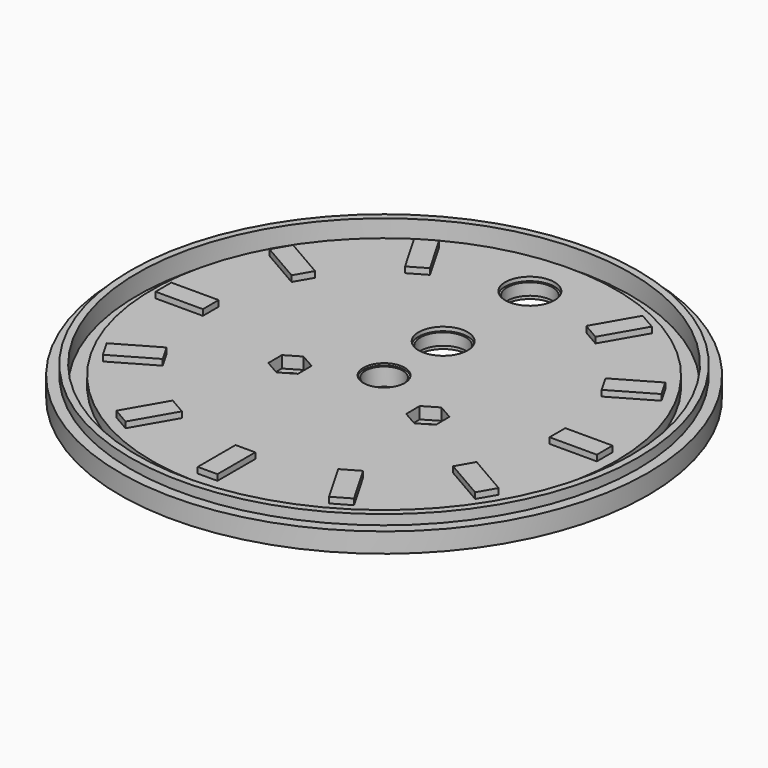
from build123d import *

# Parameters (mm, degrees)
F0_R      = 67
F1_DEPTH  = 2.5
F2_R      = 64.375
F2_R_2    = 62.625
F3_DEPTH  = 5
F4_R      = 62.625
F4_R_2    = 58.875
F5_DEPTH  = 5
F6_R      = 4.75
F6_R_2    = 5.75
F6_R_3    = 2.1
F7_DEPTH  = 5.001
F8_R      = 5.25
F8_R_2    = 4.75
F9_DEPTH  = 0.5
F8_R_3    = 6.25
F8_R_4    = 5.75
F10_DEPTH = 1
F8_R_5    = 2.1
F11_DEPTH = 3
F12_R     = 6.25
F12_R_2   = 5.75
F13_DEPTH = 1
F14_W     = 5
F14_H     = 12
F15_DEPTH = 1.5
F16_COUNT = 6
F16_ANGLE = 150
F17_COUNT = 6
F17_ANGLE = 150


with BuildPart() as f1:
    # F0 (on Top) → F1 (new body, symmetric)
    with BuildSketch(Plane.XY):
        Circle(F0_R)
    extrude(amount=F1_DEPTH, both=True)

    # F2 (on Top) → F3 (join)
    with BuildSketch(Plane.XY):
        Circle(F2_R)
        Circle(F2_R_2, mode=Mode.SUBTRACT)
    extrude(amount=F3_DEPTH)

    # F4 (on Top) → F5 (cut)
    with BuildSketch(Plane.XY):
        Circle(F4_R)
        Circle(F4_R_2, mode=Mode.SUBTRACT)
    extrude(amount=F5_DEPTH, mode=Mode.SUBTRACT)

    # F6 (on face) → F7 (cut, through all)
    with BuildSketch(Plane.XY.offset(2.5)):
        Circle(F6_R)
        with Locations((0, 18.75)):
            Circle(F6_R_2)
        with Locations((0, 46.25)):
            Circle(F6_R_2)
        with Locations((17.5, -8)):
            Circle(F6_R_3)
        with Locations((-17.5, -8)):
            Circle(F6_R_3)
    extrude(amount=-F7_DEPTH, mode=Mode.SUBTRACT)

    # F8 (on face) → F9 (cut)
    with BuildSketch(Plane.XY.offset(2.5)):
        Circle(F8_R)
        Circle(F8_R_2, mode=Mode.SUBTRACT)
    extrude(amount=-F9_DEPTH, mode=Mode.SUBTRACT)

    # F8 (on face) → F10 (cut)
    with BuildSketch(Plane.XY.offset(2.5)):
        with Locations((0, 18.75)):
            Circle(F8_R_3)
        with Locations((0, 18.75)):
            Circle(F8_R_4, mode=Mode.SUBTRACT)
        with Locations((0, 46.25)):
            Circle(F8_R_3)
        with Locations((0, 46.25)):
            Circle(F8_R_4, mode=Mode.SUBTRACT)
    extrude(amount=-F10_DEPTH, mode=Mode.SUBTRACT)

    # F8 (on face) → F11 (cut)
    with BuildSketch(Plane.XY.offset(2.5)):
        Polygon((17.5327657222, -12.3300030494), (21.2662755003, -10.1366255769), (21.2335097781, -5.8066225275), (17.4672342778, -3.6699969506), (13.7337244997, -5.8633744231), (13.7664902219, -10.1933774725), align=None)
        with Locations((17.5, -8)):
            Circle(F8_R_5, mode=Mode.SUBTRACT)
        Polygon((-17.4672342778, -12.3300030494), (-13.7337244997, -10.1366255769), (-13.7664902219, -5.8066225275), (-17.5327657222, -3.6699969506), (-21.2662755003, -5.8633744231), (-21.2335097781, -10.1933774725), align=None)
        with Locations((-17.5, -8)):
            Circle(F8_R_5, mode=Mode.SUBTRACT)
    extrude(amount=-F11_DEPTH, mode=Mode.SUBTRACT)

    # F12 (on face) → F13 (cut)
    with BuildSketch(Plane(origin=(0, 0, -2.5), x_dir=(1, 0, 0), z_dir=(0, 0, -1))):
        with Locations((0, -46.25)):
            Circle(F12_R)
        with Locations((0, -46.25)):
            Circle(F12_R_2, mode=Mode.SUBTRACT)
        with Locations((0, -18.75)):
            Circle(F12_R)
        with Locations((0, -18.75)):
            Circle(F12_R_2, mode=Mode.SUBTRACT)
    extrude(amount=-F13_DEPTH, mode=Mode.SUBTRACT)

    # F14 (on face) → F15 (join)
    with BuildSketch(Plane.XY.offset(2.5)):
        with Locations((0, -50)):
            Rectangle(F14_W, F14_H)
    f15 = extrude(amount=F15_DEPTH)

    # F16: F15 ×6 about axis
    f16_axis = Axis((0, 0, 2.5), (0, 0, -1))
    for i in range(1, F16_COUNT):
        add(f15.rotate(f16_axis, i * F16_ANGLE / (F16_COUNT - 1)))

    # F17: F15 ×6 about axis
    f17_axis = Axis((0, 0, 2.5), (0, 0, 1))
    for i in range(1, F17_COUNT):
        add(f15.rotate(f17_axis, i * F17_ANGLE / (F17_COUNT - 1)))


solid = f1.part
